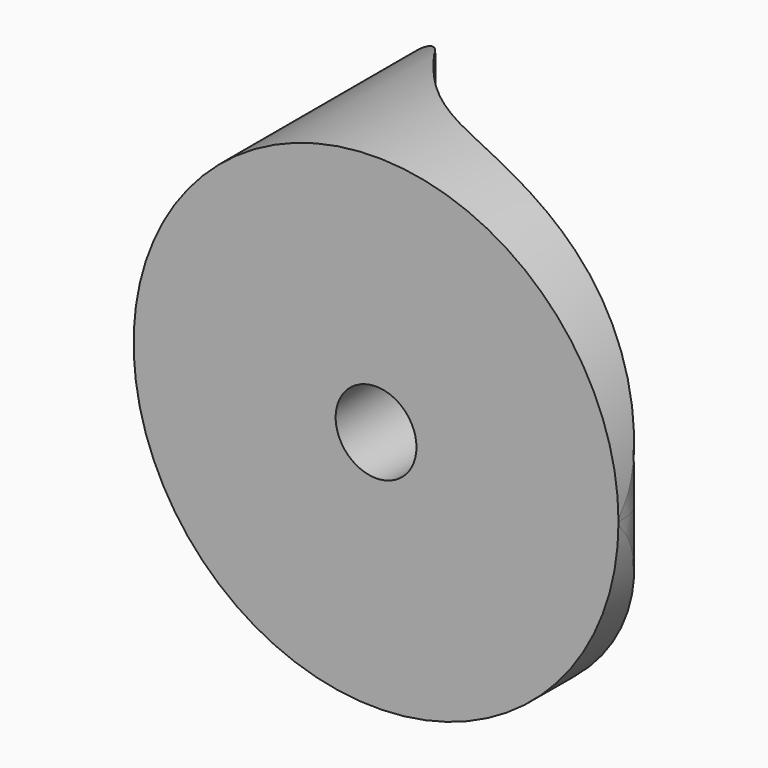
from build123d import *

# Parameters (mm, degrees)
F2_DEPTH = 30
F0_R     = 30
F3_DEPTH = 42.6
F4_R     = 5
F5_DEPTH = 25
F6_R     = 3.5
F7_DEPTH = 30


with BuildPart() as f2:
    # F1 (on Top) → F2 (new body, symmetric)
    with BuildSketch(Plane.XY):
        with BuildLine():
            Line((-30, 20), (-30, 0))
            Line((-30, 0), (30, 0))
            add(Edge.make_bspline(
                [(-11.9669232517, 23.9158645272), (-7.6923151604, 18.383000577), (0.0553950067, 7.9561946526), (21.492198658, 7.4765338225), (29.8760138515, 4.1160909055), (29.9615187291, 1.3138395604), (30, 0)],
                knots=[0, 0, 0, 0, 0.3240993857, 0.657453389, 0.8627722962, 1, 1, 1, 1], degree=3))
            add(Edge.make_bspline(
                [(-30, 20), (-30, 24.3235133941), (-27.2825003911, 35.5783617991), (-14.6559835243, 28.5594591932), (-11.9669232517, 23.9158645272)],
                knots=[0, 0, 0, 0, 0.4708239219, 1, 1, 1, 1], degree=3))
        make_face()
    extrude(amount=F2_DEPTH, both=True)

    # F0 (on Front) → F3 (intersect)
    with BuildSketch(Plane.XZ):
        Circle(F0_R)
    extrude(amount=-F3_DEPTH, mode=Mode.INTERSECT)

    # F4 (on Front) → F5 (cut)
    with BuildSketch(Plane.XZ):
        Circle(F4_R)
    extrude(amount=-F5_DEPTH, mode=Mode.SUBTRACT)

    # F6 (on Right) → F7 (cut)
    with BuildSketch(Plane.YZ):
        with Locations((22, 0)):
            Circle(F6_R)
    extrude(amount=-F7_DEPTH, mode=Mode.SUBTRACT)


solid = f2.part
